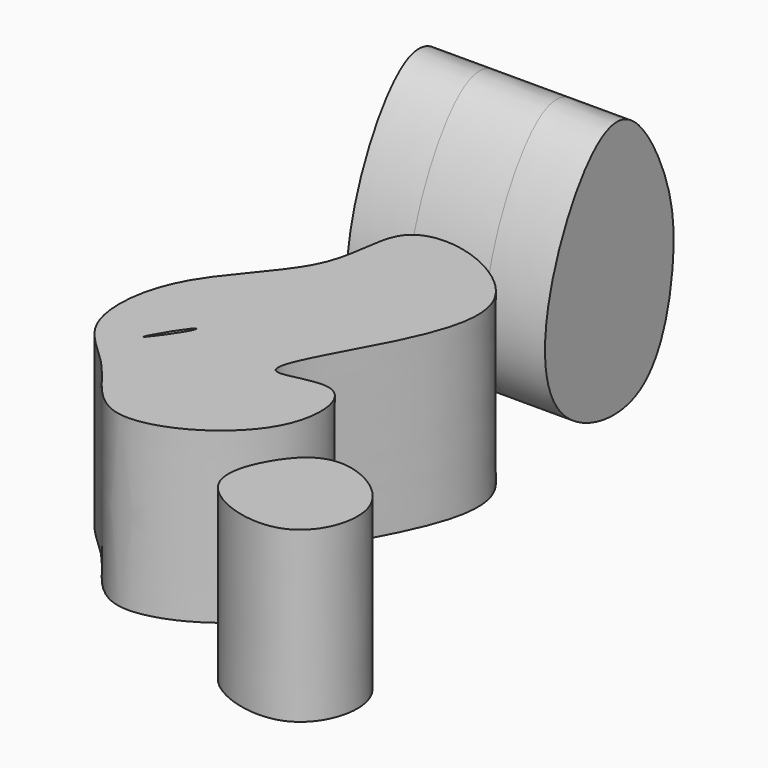
from build123d import *

# Parameters (mm, degrees)
F1_DEPTH = 31.242
F3_DEPTH = 11.176
F4_DEPTH = 25.4


with BuildPart() as f1:
    # F0 (on Top) → F1 (new body)
    with BuildSketch(Plane.XY):
        with BuildLine():
            add(Edge.make_bspline(
                [(23.5497429967, -40.1035360992), (29.9833158166, -41.2788259409), (47.9711851947, -31.3854184954), (45.4643645992, -10.6340345324), (27.0820088824, -20.117292247), (41.6575070226, 2.7587827901), (48.1587239606, 21.9811852047), (30.5761651268, 32.7247252722), (18.0431003853, 30.5434245343), (19.9761471231, 13.6250471487), (2.2798932471, -0.382183002), (0.9119455853, -21.4144698778), (13.1597933761, -28.911322758), (18.4148661243, -39.1654929938), (23.5497429967, -40.1035360992)],
                knots=[0, 0, 0, 0, 0.1018977825, 0.1788463313, 0.2440028472, 0.3337939899, 0.4276158348, 0.51386631, 0.5784752362, 0.6557904791, 0.7536239766, 0.8419786727, 0.9186715405, 1, 1, 1, 1], degree=3))
        make_face()
        with BuildLine():
            add(Edge.make_bspline(
                [(11.2925330177, -19.0928503871), (11.5532199303, -19.2299682307), (16.2517992428, -12.6196934711), (15.0947299119, -12.0456482481), (11.0323854898, -18.9560162526), (11.2925330177, -19.0928503871)],
                knots=[0, 0, 0, 0, 0.4571971061, 0.5437488759, 1, 1, 1, 1], degree=3))
        make_face(mode=Mode.SUBTRACT)
    extrude(amount=F1_DEPTH)


with BuildPart() as f1b:
    # F0 (on Top) → F1, piece 2 (new body)
    with BuildSketch(Plane.XY):
        with BuildLine():
            add(Edge.make_bspline(
                [(48.6923530698, -48.6665144563), (46.5009291503, -45.3707698318), (49.1681540871, -37.2276797586), (57.2134890081, -29.2668289332), (73.7891414347, -38.5271267177), (67.0017985075, -57.936820731), (51.3958262957, -52.7323445645), (48.6923530698, -48.6665144563)],
                knots=[0, 0, 0, 0, 0.182984839, 0.355903215, 0.5664482529, 0.7742588239, 1, 1, 1, 1], degree=3))
        make_face()
    extrude(amount=F1_DEPTH)


with BuildPart() as f3:
    # F2 (on Right) → F3 (new body)
    with BuildSketch(Plane.YZ):
        with BuildLine():
            add(Edge.make_bspline(
                [(61.3959953189, 42.0347638428), (64.6510468164, 40.1360607161), (70.7745942736, 29.4013036112), (72.6908906695, 15.1946993841), (66.8234728402, -7.7325525334), (42.2852968785, -2.4263699832), (40.3870694014, 20.4763169925), (52.2291514885, 42.3979986707), (59.0760117058, 43.3880327983), (61.3959953189, 42.0347638428)],
                knots=[0, 0, 0, 0, 0.1338507716, 0.2731734065, 0.4273977344, 0.5741961319, 0.7333180398, 0.9046000971, 1, 1, 1, 1], degree=3))
        make_face()
        with BuildLine():
            add(Edge.make_bspline(
                [(56.2722049654, 27.2545926273), (58.6281679194, 27.7534126274), (66.2130831859, 24.4705451041), (62.8080915446, 16.1528688927), (60.2049013627, 5.2648234143), (49.1047890829, 12.7605563858), (52.0948374247, 22.1974670716), (54.2061117909, 26.8171457669), (56.2722049654, 27.2545926273)],
                knots=[0, 0, 0, 0, 0.1670366173, 0.3331989475, 0.5037835597, 0.6757097581, 0.8535150078, 1, 1, 1, 1], degree=3))
        make_face(mode=Mode.SUBTRACT)
        with BuildLine():
            add(Edge.make_bspline(
                [(56.2722049654, 27.2545926273), (58.6281679194, 27.7534126274), (66.2130831859, 24.4705451041), (62.8080915446, 16.1528688927), (60.2049013627, 5.2648234143), (49.1047890829, 12.7605563858), (52.0948374247, 22.1974670716), (54.2061117909, 26.8171457669), (56.2722049654, 27.2545926273)],
                knots=[0, 0, 0, 0, 0.1670366173, 0.3331989475, 0.5037835597, 0.6757097581, 0.8535150078, 1, 1, 1, 1], degree=3))
        make_face()
    extrude(amount=F3_DEPTH)

    # F4 (add): faces of the model
    f4_faces = [f3.faces().sort_by_distance(p)[0] for p in [
        (0, 57.1515570729, 17.7946387549),
        (11.176, 57.1515570729, 17.7946387549),
    ]]
    extrude(f4_faces, amount=-F4_DEPTH, dir=(-1, 0, 0))


solid = Compound([f1.part, f1b.part, f3.part])
